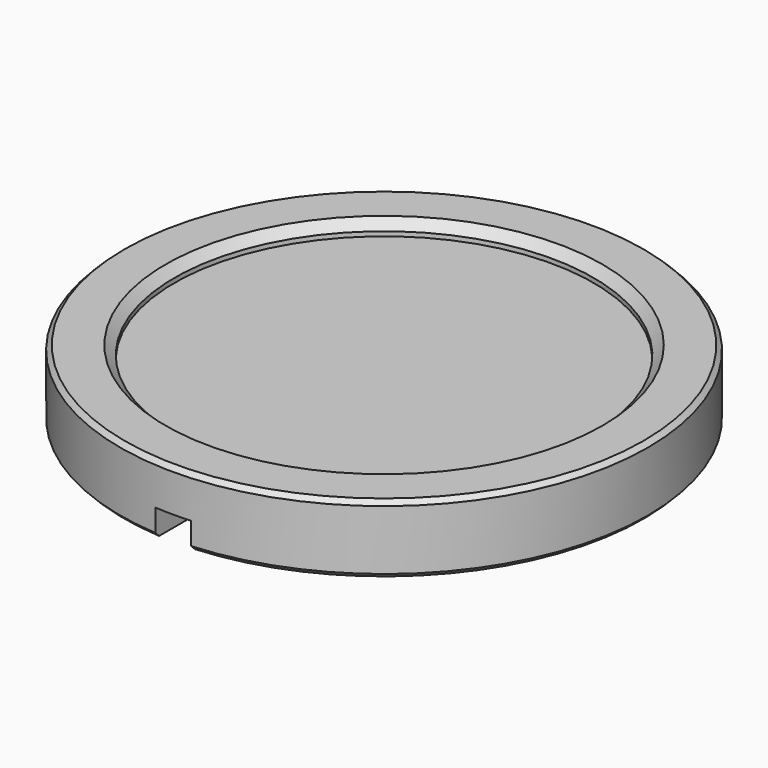
from build123d import *

# Parameters (mm, degrees)
CHAMFER_SIZE    = 1
SKETCH001_R     = 2.25
SKETCH001_R_2   = 1.95
POCKET_DEPTH    = 2
CHAMFER001_SIZE = 0.5
POCKET001_DEPTH = 3


with BuildPart() as part:
    # Sketch (on XZ_Plane of Origin) → Revolution (revolve)
    with BuildSketch(Plane.XZ):
        Polygon((0, 0), (29.6, 0), (29.6, 7.7), (23.5, 7.7), (23.5, 6.2), (0, 6.2), align=None)
    revolve(axis=Axis((0, 0, 0), (0, 0, 1)))

    # Chamfer
    chamfer_edges = [part.edges().sort_by_distance(p)[0] for p in [
        (-23.5, 0, 7.7),
    ]]
    chamfer(chamfer_edges, length=CHAMFER_SIZE)

    # Sketch001 (on XY_Plane of Origin) → Pocket (cut)
    with BuildSketch(Plane.XY):
        Circle(SKETCH001_R)
        with Locations((14, 0)):
            Circle(SKETCH001_R_2)
        with Locations((-14, 0)):
            Circle(SKETCH001_R_2)
    extrude(amount=POCKET_DEPTH, mode=Mode.SUBTRACT)

    # Chamfer001
    chamfer001_edges = [part.edges().sort_by_distance(p)[0] for p in [
        (-29.6, 0, 7.7),
        (-29.6, 0, 0),
    ]]
    chamfer(chamfer001_edges, length=CHAMFER001_SIZE)

    # Sketch002 (on XY_Plane of Origin) → Pocket001 (cut)
    with BuildSketch(Plane.XY):
        with BuildLine():
            ThreePointArc((2, -22.1), (0, -20.1), (-2, -22.1))
            Line((-2, -22.1), (-2, -31.1))
            ThreePointArc((-2, -31.1), (0, -33.1), (2, -31.1))
            Line((2, -22.1), (2, -31.1))
        make_face()
    extrude(amount=POCKET001_DEPTH, mode=Mode.SUBTRACT)


solid = part.part
